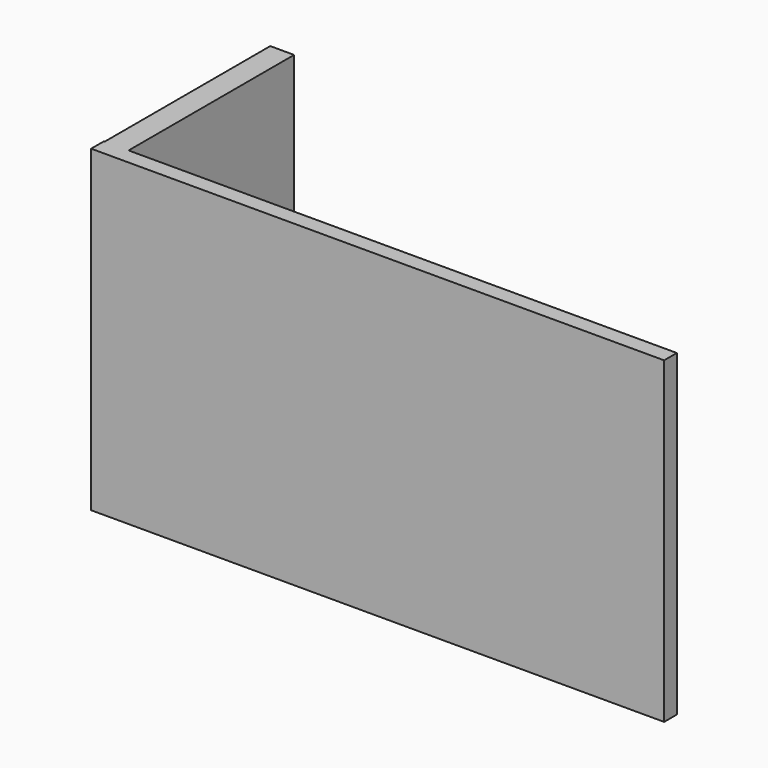
from build123d import *

# Parameters (mm, degrees)
F0_W     = 914.4
F0_H     = 508
F1_DEPTH = 25.4
F2_W     = 38.1
F2_H     = 330.2
F3_DEPTH = 254


with BuildPart() as f1:
    # F0 (on Front) → F1 (new body)
    with BuildSketch(Plane.XZ):
        Rectangle(F0_W, F0_H)
    extrude(amount=F1_DEPTH)

    # F2 (on Top) → F3 (join, symmetric)
    with BuildSketch(Plane.XY):
        with Locations((-436.827635, 165.1)):
            Rectangle(F2_W, F2_H)
    extrude(amount=F3_DEPTH, both=True)


solid = f1.part
